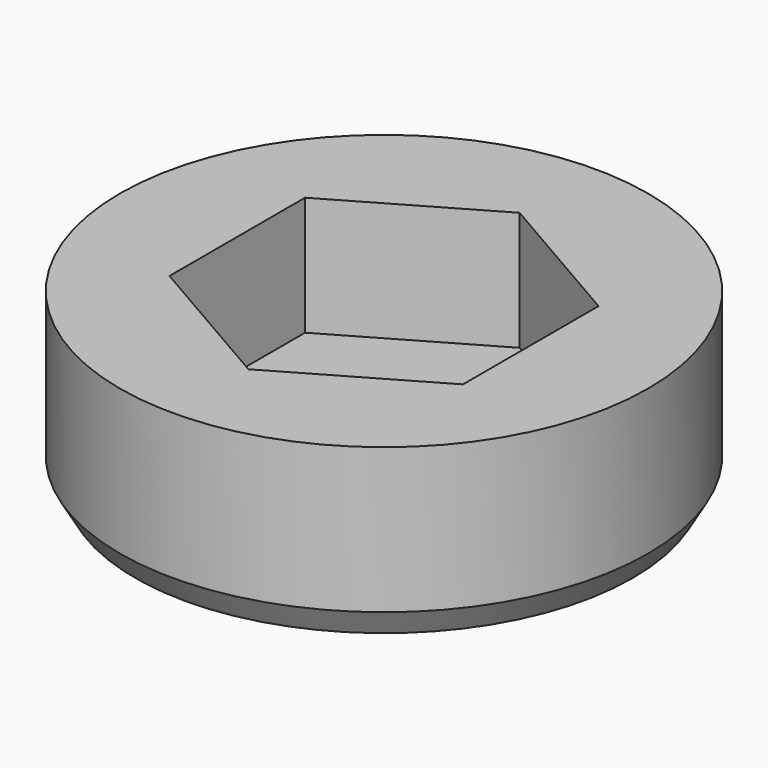
from build123d import *

# Parameters (mm, degrees)
F0_R     = 10
F1_DEPTH = 6.5
F2_DEPTH = 2
F3_SIZE2 = 0.5773502692
F3_SIZE  = 1


with BuildPart() as f1:
    # F0 (on Top) → F1 (new body)
    with BuildSketch(Plane.XY):
        Circle(F0_R)
        Polygon((-5.55625, -3.2079024332), (-5.55625, 3.2079024332), (0, 6.4158048664), (5.55625, 3.2079024332), (5.55625, -3.2079024332), (0, -6.4158048664), align=None, mode=Mode.SUBTRACT)
    extrude(amount=F1_DEPTH)

    # F0 (on Top) → F2 (join)
    with BuildSketch(Plane.XY):
        Polygon((0, 6.4158048664), (-5.55625, 3.2079024332), (-5.55625, -3.2079024332), (0, -6.4158048664), (5.55625, -3.2079024332), (5.55625, 3.2079024332), align=None)
    extrude(amount=F2_DEPTH)

    # F3
    f3_edges = [f1.edges().sort_by_distance(p)[0] for p in [
        (-10, 0, 0),
    ]]
    f3_side = f1.faces().sort_by_distance((-10, 0, 3.25))[0]
    chamfer(f3_edges, length=F3_SIZE, length2=F3_SIZE2, reference=f3_side)


solid = f1.part
